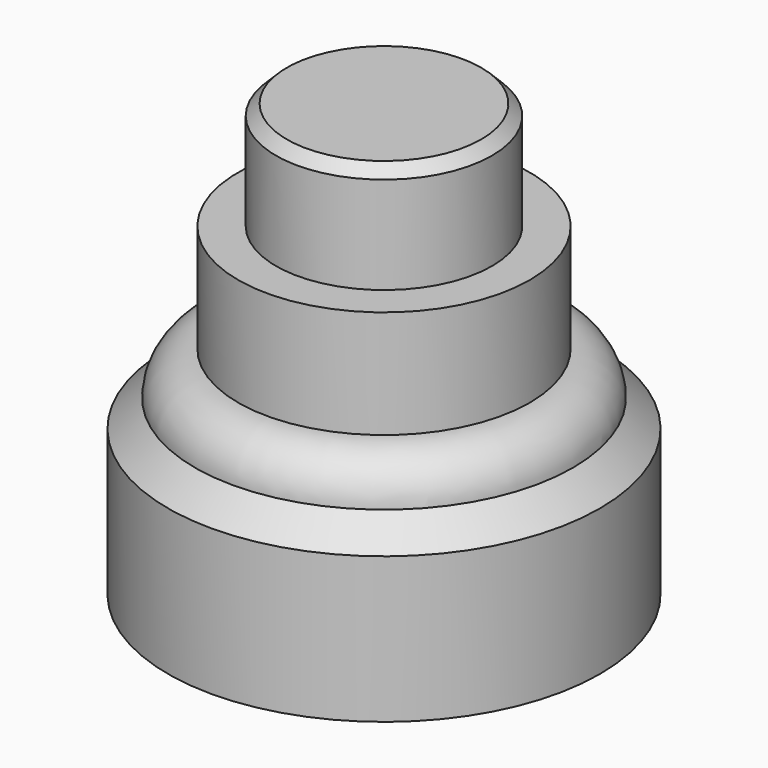
from build123d import *


with BuildPart() as f1:
    # F0 (on Front) → F1 (revolve)
    with BuildSketch(Plane.XZ):
        with BuildLine():
            Line((0, 80), (0, 0))
            Line((0, 0), (40, 0))
            Line((40, 0), (40, 27))
            Line((40, 27), (35, 32))
            ThreePointArc((35, 32), (32.656854, 37.656854), (27, 40))
            Line((27, 40), (27, 60))
            Line((27, 60), (20, 60))
            Line((20, 60), (20, 78))
            Line((20, 78), (18, 80))
            Line((18, 80), (0, 80))
        make_face()
    revolve(axis=Axis((0, 0, 40), (0, 0, -1)))


solid = f1.part
